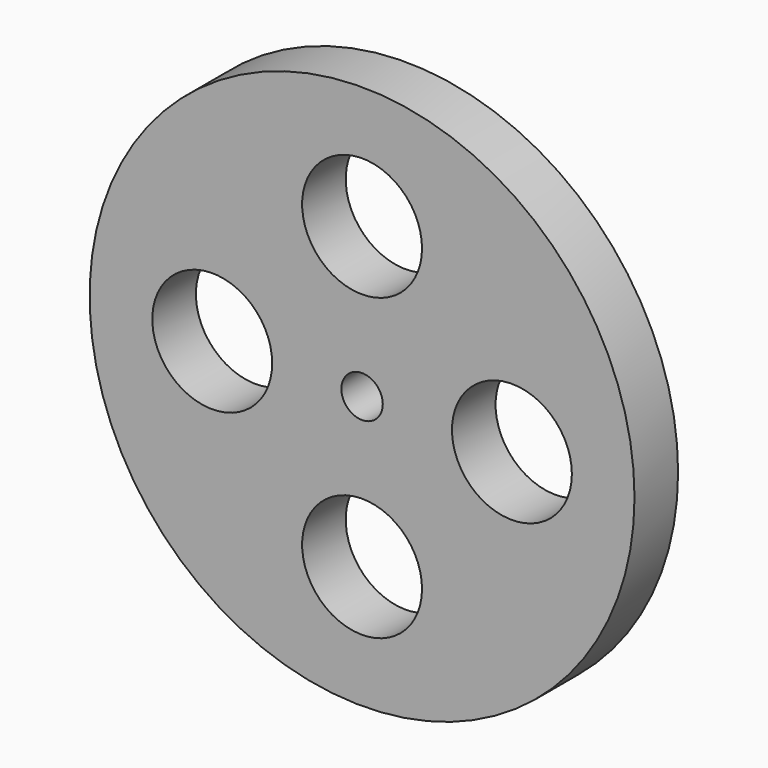
from build123d import *

# Parameters (mm, degrees)
F0_R     = 31.75
F0_R_2   = 6.985
F0_R_3   = 2.413
F1_DEPTH = 6.35
F2_DEPTH = 2.54


with BuildPart() as f1:
    # F0 (on Front) → F1 (new body)
    with BuildSketch(Plane.XZ):
        Circle(F0_R)
        with Locations((0, -17.4625)):
            Circle(F0_R_2, mode=Mode.SUBTRACT)
        with Locations((-17.4625, 0)):
            Circle(F0_R_2, mode=Mode.SUBTRACT)
        Circle(F0_R_3, mode=Mode.SUBTRACT)
        with Locations((17.4625, 0)):
            Circle(F0_R_2, mode=Mode.SUBTRACT)
        with Locations((0, 17.4625)):
            Circle(F0_R_2, mode=Mode.SUBTRACT)
    extrude(amount=F1_DEPTH)


with BuildPart() as f2:
    # F0 (on Front) → F2 (new body)
    with BuildSketch(Plane.XZ):
        Circle(F0_R_3)
    extrude(amount=-F2_DEPTH)


solid = Compound([f1.part, f2.part])
